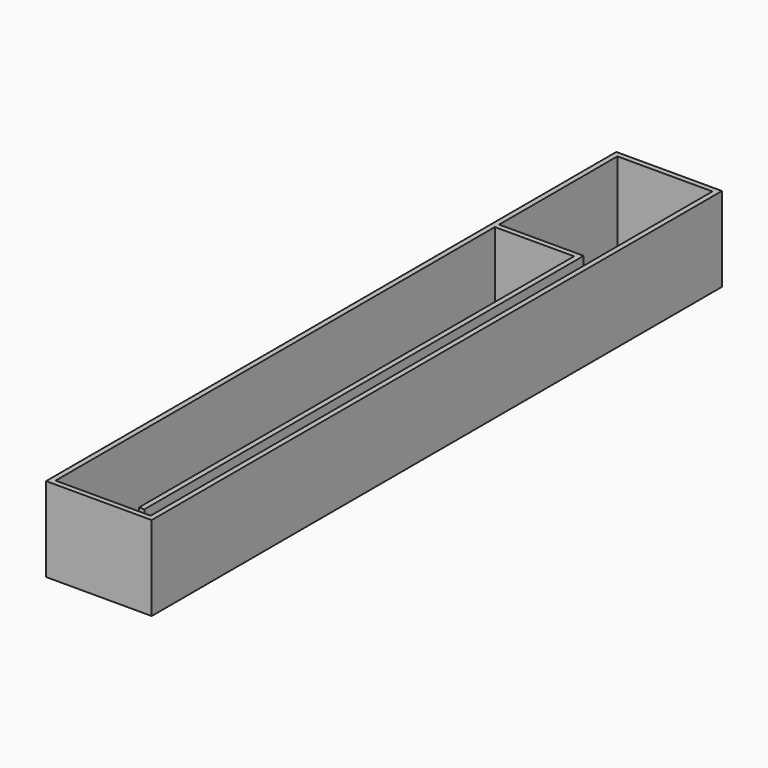
from build123d import *

# Parameters (mm, degrees)
F0_W     = 20
F0_H     = 135
F1_DEPTH = 1
F2_W     = 18
F2_H     = 1
F3_DEPTH = 15


with BuildPart() as f1:
    # F0 (on Top) → F1 (new body)
    with BuildSketch(Plane.XY):
        Rectangle(F0_W, F0_H)
    extrude(amount=F1_DEPTH)

    # F2 (on face) → F3 (join)
    with BuildSketch(Plane.XY.offset(1)):
        Polygon((-10, -66.5), (-10, -67.5), (10, -67.5), (10, -66.5), (9, -66.5), (-9, -66.5), align=None)
        Polygon((-10, 67.5), (-10, -66.5), (-9, -66.5), (-9, 37.5), (-9, 38.5), (-9, 66.5), (-9, 67.5), align=None)
        Polygon((9, -66.5), (10, -66.5), (10, 67.5), (9, 67.5), (9, 66.5), align=None)
        with Locations((0, 67)):
            Rectangle(F2_W, F2_H)
        Polygon((-9, 38.5), (-9, 37.5), (6, 37.5), (6, -65.5), (7, -65.5), (7, 38.5), align=None)
    extrude(amount=F3_DEPTH)


solid = f1.part
